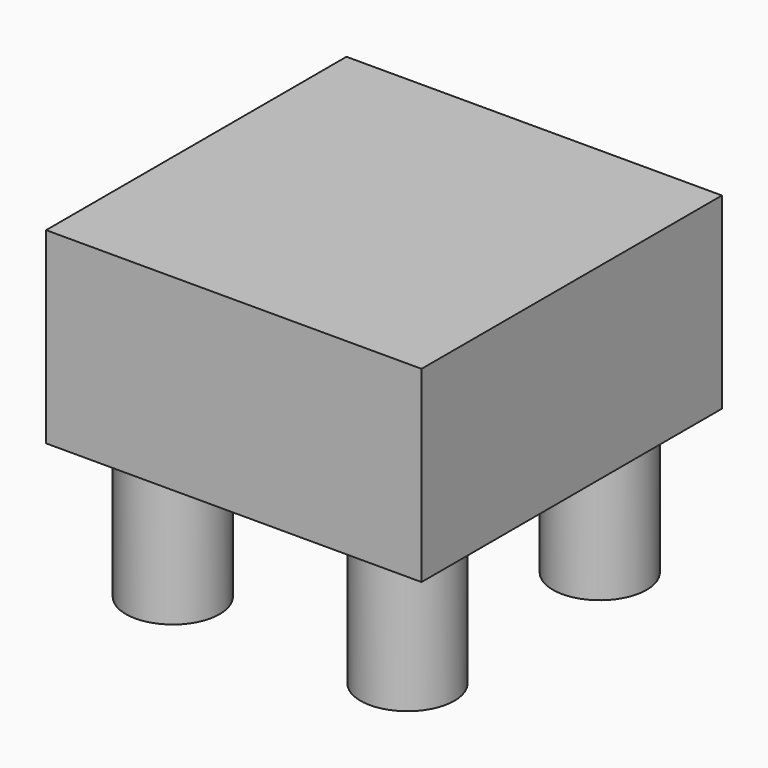
from build123d import *

# Parameters (mm, degrees)
F0_W     = 101.6
F0_H     = 101.6
F1_DEPTH = 50.8
F2_R     = 12.7
F3_DEPTH = 38.1


with BuildPart() as f1:
    # F0 (on Top) → F1 (new body)
    with BuildSketch(Plane.XY):
        with Locations((0, -0.770882)):
            Rectangle(F0_W, F0_H)
    extrude(amount=F1_DEPTH)

    # F2 (on face) → F3 (join)
    with BuildSketch(Plane.XY):
        with Locations((31.75, -32.520882)):
            Circle(F2_R)
        with Locations((-31.75, -32.520882)):
            Circle(F2_R)
        with Locations((31.75, 32.520882)):
            Circle(F2_R)
        with Locations((-31.75, 32.520882)):
            Circle(F2_R)
    extrude(amount=-F3_DEPTH)


solid = f1.part
